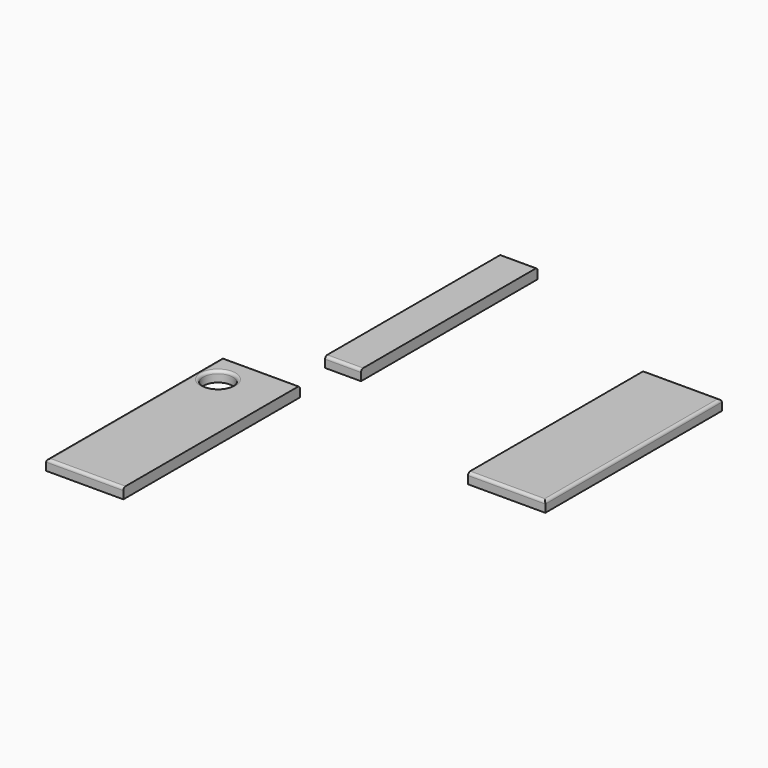
from build123d import *

# Parameters (mm, degrees)
F0_W     = 140
F0_H     = 400
F1_DEPTH = 19
F2_W     = 65
F2_H     = 400
F3_DEPTH = 19
F4_W     = 140
F4_H     = 400
F4_R     = 26.82253
F5_DEPTH = 19
F6_R     = 5
F6_2_R   = 5
F6_3_R   = 5
F7_R     = 5


with BuildPart() as f1:
    # F0 (on Top) → F1 (new body)
    with BuildSketch(Plane.XY):
        with Locations((-101.23252, 23.488902)):
            Rectangle(F0_W, F0_H)
    extrude(amount=F1_DEPTH)

    # F6#3
    f6_3_edges = [f1.edges().sort_by_distance(p)[0] for p in [
        (-101.23252, -176.511098, 19),
        (-31.23252, 23.488902, 19),
        (-101.23252, 223.488902, 19),
    ]]
    fillet(f6_3_edges, radius=F6_3_R)


with BuildPart() as f3:
    # F2 (on Top) → F3 (new body)
    with BuildSketch(Plane.XY):
        with Locations((-519.274324, 175.454074)):
            Rectangle(F2_W, F2_H)
    extrude(amount=F3_DEPTH)

    # F6#2
    f6_2_edges = [f3.edges().sort_by_distance(p)[0] for p in [
        (-519.274324, -24.545926, 19),
        (-519.274324, 375.454074, 19),
    ]]
    fillet(f6_2_edges, radius=F6_2_R)


with BuildPart() as f5:
    # F4 (on Top) → F5 (new body)
    with BuildSketch(Plane.XY):
        with Locations((-593.168492, -317.295037)):
            Rectangle(F4_W, F4_H)
        with Locations((-625.500441, -175.024316)):
            Circle(F4_R, mode=Mode.SUBTRACT)
    extrude(amount=F5_DEPTH)

    # F6
    f6_edges = [f5.edges().sort_by_distance(p)[0] for p in [
        (-663.168492, -317.295037, 19),
        (-593.168492, -517.295037, 19),
        (-593.168492, -117.295037, 19),
    ]]
    fillet(f6_edges, radius=F6_R)

    # F7
    f7_edges = [f5.edges().sort_by_distance(p)[0] for p in [
        (-652.32297, -175.024316, 19),
    ]]
    fillet(f7_edges, radius=F7_R)


solid = Compound([f1.part, f3.part, f5.part])
